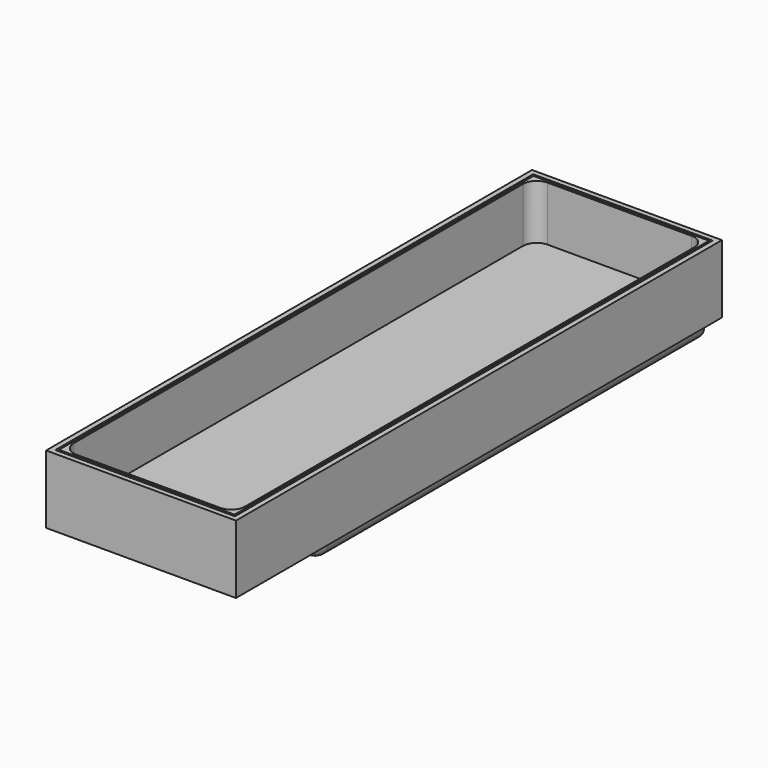
from build123d import *

# Parameters (mm, degrees)
F0_W     = 70.739
F0_H     = 226.2886
F1_DEPTH = 25.4
F2_W     = 63.8302
F2_H     = 219.4306
F3_DEPTH = 20.32
F4_W     = 57.5818
F4_H     = 180.0606
F5_DEPTH = 10.16
F6_R     = 5.08
F7_W     = 66.8782
F7_H     = 222.4786
F7_W_2   = 65.3542
F7_H_2   = 220.9546
F8_DEPTH = 5


with BuildPart() as f1:
    # F0 (on Top) → F1 (new body)
    with BuildSketch(Plane.XY):
        with Locations((-23.397979, 9.605568)):
            Rectangle(F0_W, F0_H)
    extrude(amount=F1_DEPTH)

    # F2 (on face) → F3 (cut)
    with BuildSketch(Plane.XY.offset(25.4)):
        with Locations((-23.397979, 9.605568)):
            Rectangle(F2_W, F2_H)
    extrude(amount=-F3_DEPTH, mode=Mode.SUBTRACT)

    # F4 (on face) → F5 (join)
    with BuildSketch(Plane(origin=(0, 0, 0), x_dir=(1, 0, 0), z_dir=(0, 0, -1))):
        with Locations((-23.397979, -32.719568)):
            Rectangle(F4_W, F4_H)
    extrude(amount=F5_DEPTH)

    # F6
    f6_edges = [f1.edges().sort_by_distance(p)[0] for p in [
        (-23.397979, -57.310732, -10.16),
        (5.392921, 32.719568, -10.16),
        (-52.188879, 32.719568, -10.16),
        (5.392921, -57.310732, -5.08),
        (-52.188879, -57.310732, -5.08),
        (8.517121, -100.109732, 15.24),
        (8.517121, 119.320868, 15.24),
        (-55.313079, 119.320868, 15.24),
        (-55.313079, -100.109732, 15.24),
    ]]
    fillet(f6_edges, radius=F6_R)

    # F7 (on face) → F8 (cut)
    with BuildSketch(Plane.XY.offset(25.4)):
        with Locations((-23.397979, 9.605568)):
            Rectangle(F7_W, F7_H)
        with Locations((-23.397979, 9.605568)):
            Rectangle(F7_W_2, F7_H_2, mode=Mode.SUBTRACT)
    extrude(amount=-F8_DEPTH, mode=Mode.SUBTRACT)


solid = f1.part
